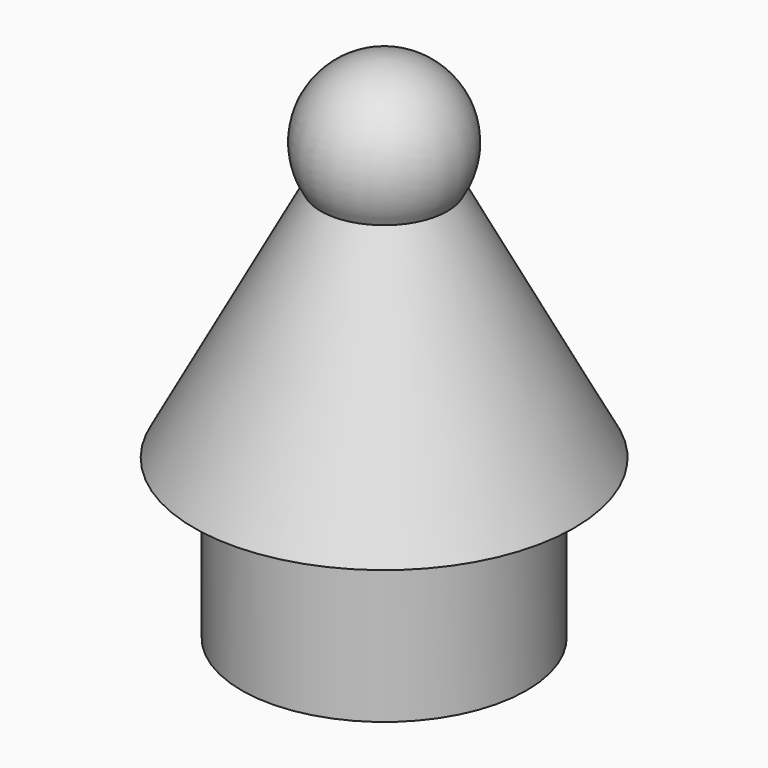
from build123d import *


with BuildPart() as part:
    # Sketch → Revolution (revolve)
    with BuildSketch(Plane.XZ):
        with BuildLine():
            Line((4.5, 0), (4.5, -5))
            Line((4.5, -5), (0, -5))
            Line((0, 11.135094), (0, -5))
            ThreePointArc((2, 7.5), (2.074482, 9.908719), (0, 11.135094))
            Line((6, 0), (2, 7.5))
            Line((4.5, 0), (6, 0))
        make_face()
    revolve(axis=Axis((0, 0, 0), (0, 0, 1)))


solid = part.part
